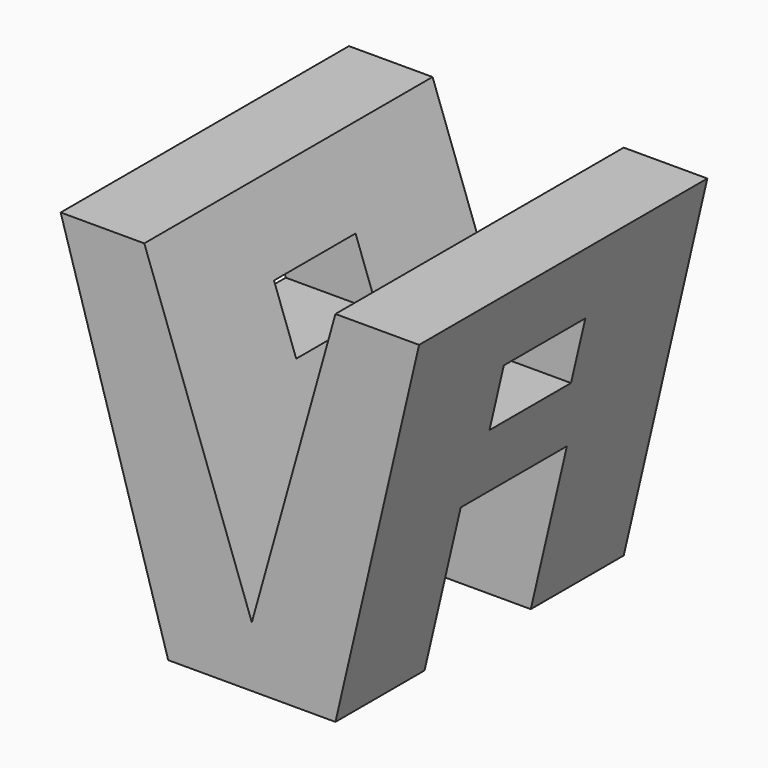
from build123d import *

# Parameters (mm, degrees)
F0_W     = 38.3040010929
F0_H     = 38.1780005991
F1_DEPTH = 38.1
F2_W     = 10.8359996229
F2_H     = 6.5519977361
F2_W_2   = 14.112001285
F2_H_2   = 16.5060013533
F3_DEPTH = 38.1
F5_DEPTH = 38.1
F6_DEPTH = 25.4
F7_DEPTH = 25.4


with BuildPart() as f1:
    # F0 (on Right) → F1 (new body)
    with BuildSketch(Plane.YZ):
        with Locations((19.1520005465, 19.0890002996)):
            Rectangle(F0_W, F0_H)
    extrude(amount=-F1_DEPTH)

    # F2 (on Right) → F3 (cut)
    with BuildSketch(Plane.YZ):
        with Locations((19.0259991214, 26.8379999325)):
            Rectangle(F2_W, F2_H)
        with Locations((18.9000004902, 8.2530006766)):
            Rectangle(F2_W_2, F2_H_2)
    extrude(amount=-F3_DEPTH, mode=Mode.SUBTRACT)

    # F4 (on face) → F5 (cut)
    with BuildSketch(Plane.XZ):
        Polygon((-17.78, 6.426000502), (-8.89, 38.1780005991), (-29.21, 38.1780005991), align=None)
        Polygon((-38.1, 0), (-26.67, 0), (-38.1, 38.1780005991), align=None)
        Polygon((-8.89, 0), (0, 0), (0, 38.1780005991), align=None)
    extrude(amount=-F5_DEPTH, mode=Mode.SUBTRACT)

    # F6 (cut): faces of the model
    f6_faces = [f1.faces().sort_by_distance(p)[0] for p in [
        (-18.6266666667, 38.1, 27.5940005668),
        (-34.29, 38.1, 12.7260001997),
        (-2.9633333333, 38.1, 12.7260001997),
    ]]
    extrude(f6_faces, amount=-F6_DEPTH, mode=Mode.SUBTRACT)

    # F7 (cut): faces of the model
    f7_faces = [f1.faces().sort_by_distance(p)[0] for p in [
        (-4.445, 19.1520005465, 38.1780005991),
        (-33.655, 19.1520005465, 38.1780005991),
    ]]
    extrude(f7_faces, amount=F7_DEPTH, mode=Mode.SUBTRACT)


solid = f1.part
